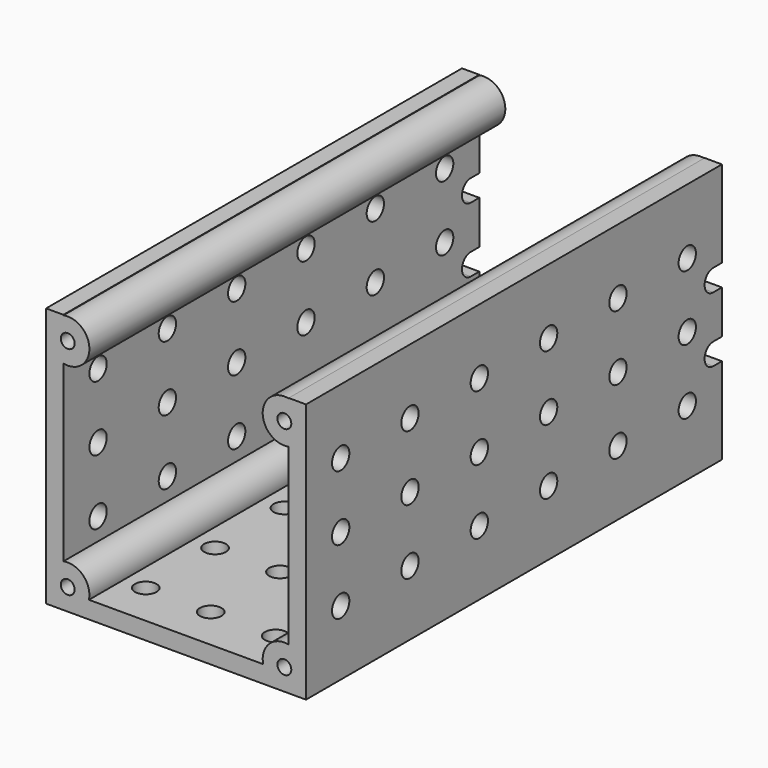
from build123d import *

# Parameters (mm, degrees)
F3_DEPTH       = 152.4
F1_R           = 6.35
F4_DEPTH       = 152.4
F2_R           = 2.032
F5_DEPTH       = 152.401
F6_R           = 3.175
F7_DEPTH       = 38.101
F7_DEPTH_BACK  = 38.101
F8_R           = 3.175
F9_DEPTH       = 76.201
F11_DEPTH      = 38.101
F11_DEPTH_BACK = 38.101
F13_DEPTH      = 76.201


with BuildPart() as f3:
    # F0 (on Front) → F3 (new body)
    with BuildSketch(Plane.XZ):
        Polygon((-38.1, 76.2), (-38.1, 0), (38.1, 0), (38.1, 76.2), (33.02, 76.2), (33.02, 5.08), (-33.02, 5.08), (-33.02, 76.2), align=None)
    extrude(amount=F3_DEPTH)

    # F1 (on Front) → F4 (join)
    with BuildSketch(Plane.XZ):
        with Locations((-31.75, 6.35)):
            Circle(F1_R)
        with Locations((31.75, 6.35)):
            Circle(F1_R)
        with Locations((-31.75, 69.85)):
            Circle(F1_R)
        with Locations((31.75, 69.85)):
            Circle(F1_R)
    extrude(amount=F4_DEPTH)

    # F2 (on Front) → F5 (cut, through all)
    with BuildSketch(Plane.XZ):
        with Locations((-31.75, 69.85)):
            Circle(F2_R)
        with Locations((31.75, 69.85)):
            Circle(F2_R)
        with Locations((-31.75, 6.35)):
            Circle(F2_R)
        with Locations((31.75, 6.35)):
            Circle(F2_R)
    extrude(amount=F5_DEPTH, mode=Mode.SUBTRACT)

    # F6 (on Right) → F7 (cut, two sides)
    with BuildSketch(Plane.YZ) as f7_sk:
        with Locations((-12.7, 19.05)):
            Circle(F6_R)
        with Locations((-12.7, 38.1)):
            Circle(F6_R)
        with Locations((-12.7, 57.15)):
            Circle(F6_R)
        with Locations((-38.1, 19.05)):
            Circle(F6_R)
        with Locations((-38.1, 38.1)):
            Circle(F6_R)
        with Locations((-38.1, 57.15)):
            Circle(F6_R)
        with Locations((-63.5, 19.05)):
            Circle(F6_R)
        with Locations((-63.5, 38.1)):
            Circle(F6_R)
        with Locations((-63.5, 57.15)):
            Circle(F6_R)
        with Locations((-88.9, 19.05)):
            Circle(F6_R)
        with Locations((-88.9, 38.1)):
            Circle(F6_R)
        with Locations((-88.9, 57.15)):
            Circle(F6_R)
        with Locations((-114.3, 19.05)):
            Circle(F6_R)
        with Locations((-114.3, 38.1)):
            Circle(F6_R)
        with Locations((-114.3, 57.15)):
            Circle(F6_R)
        with Locations((-139.7, 19.05)):
            Circle(F6_R)
        with Locations((-139.7, 38.1)):
            Circle(F6_R)
        with Locations((-139.7, 57.15)):
            Circle(F6_R)
    extrude(amount=-F7_DEPTH, mode=Mode.SUBTRACT)
    extrude(f7_sk.sketch, amount=F7_DEPTH_BACK, mode=Mode.SUBTRACT)

    # F8 (on Top) → F9 (cut, through all)
    with BuildSketch(Plane.XY):
        with Locations((-19.05, -12.7)):
            Circle(F8_R)
        with Locations((-19.05, -38.1)):
            Circle(F8_R)
        with Locations((-19.05, -63.5)):
            Circle(F8_R)
        with Locations((-19.05, -88.9)):
            Circle(F8_R)
        with Locations((0, -12.7)):
            Circle(F8_R)
        with Locations((0, -38.1)):
            Circle(F8_R)
        with Locations((0, -63.5)):
            Circle(F8_R)
        with Locations((0, -88.9)):
            Circle(F8_R)
        with Locations((19.05, -12.7)):
            Circle(F8_R)
        with Locations((19.05, -38.1)):
            Circle(F8_R)
        with Locations((19.05, -63.5)):
            Circle(F8_R)
        with Locations((19.05, -88.9)):
            Circle(F8_R)
        with Locations((-19.05, -114.3)):
            Circle(F8_R)
        with Locations((-19.05, -139.7)):
            Circle(F8_R)
        with Locations((0, -114.3)):
            Circle(F8_R)
        with Locations((0, -139.7)):
            Circle(F8_R)
        with Locations((19.05, -114.3)):
            Circle(F8_R)
        with Locations((19.05, -139.7)):
            Circle(F8_R)
    extrude(amount=F9_DEPTH, mode=Mode.SUBTRACT)

    # F10 (on Right) → F11 (cut, two sides)
    with BuildSketch(Plane.YZ) as f11_sk:
        with BuildLine():
            Line((0, 44.45), (0, 50.8))
            Line((0, 50.8), (-3.175, 50.8))
            ThreePointArc((-3.175, 50.8), (-6.35, 47.625), (-3.175, 44.45))
            Line((-3.175, 44.45), (0, 44.45))
        make_face()
        with BuildLine():
            Line((0, 25.4), (0, 31.75))
            Line((0, 31.75), (-3.175, 31.75))
            ThreePointArc((-3.175, 31.75), (-6.35, 28.575), (-3.175, 25.4))
            Line((-3.175, 25.4), (0, 25.4))
        make_face()
    extrude(amount=-F11_DEPTH, mode=Mode.SUBTRACT)
    extrude(f11_sk.sketch, amount=F11_DEPTH_BACK, mode=Mode.SUBTRACT)

    # F12 (on Top) → F13 (cut, through all)
    with BuildSketch(Plane.XY):
        with BuildLine():
            Line((-6.35, 0), (-12.7, 0))
            Line((-12.7, 0), (-12.7, -3.175))
            ThreePointArc((-12.7, -3.175), (-9.525, -6.35), (-6.35, -3.175))
            Line((-6.35, -3.175), (-6.35, 0))
        make_face()
        with BuildLine():
            Line((12.7, 0), (6.35, 0))
            Line((6.35, 0), (6.35, -3.175))
            ThreePointArc((6.35, -3.175), (9.525, -6.35), (12.7, -3.175))
            Line((12.7, -3.175), (12.7, 0))
        make_face()
    extrude(amount=F13_DEPTH, mode=Mode.SUBTRACT)


solid = f3.part
